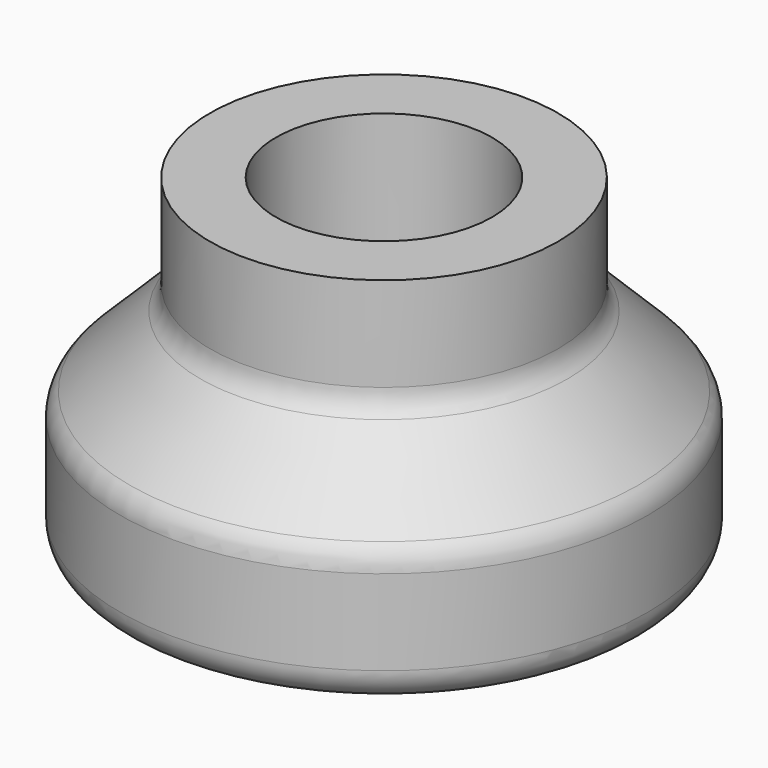
from build123d import *


with BuildPart() as f1:
    # F0 (on Front) → F1 (revolve)
    with BuildSketch(Plane.XZ):
        with BuildLine():
            Line((1.956549, 0.6), (1.956549, 0))
            Line((1.956549, 0), (7, 0))
            ThreePointArc((7, 0), (7.707107, 0.292893), (8, 1))
            Line((8, 1), (8, 3.585786))
            ThreePointArc((8, 3.585786), (7.92388, 3.96847), (7.707107, 4.292893))
            Line((7.707107, 4.292893), (5.567893, 6.432107))
            ThreePointArc((5.567893, 6.432107), (5.35112, 6.75653), (5.275, 7.139214))
            Line((5.275, 7.139214), (5.275, 10))
            Line((5.275, 10), (3.275, 10))
            Line((3.275, 10), (3.275, 1.918451))
            Line((3.275, 1.918451), (1.956549, 0.6))
        make_face()
    revolve(axis=Axis((0, 0, 7.164844), (0, 0, 1)))


solid = f1.part
